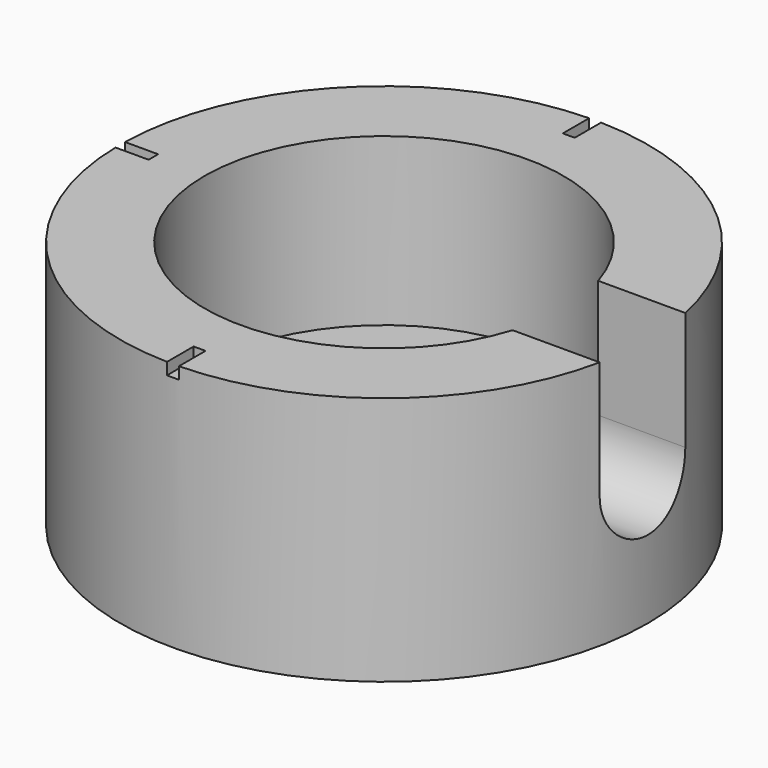
from build123d import *

# Parameters (mm, degrees)
F4_START = 14
F4_DEPTH = 16
F5_START = 20
F5_DEPTH = 1


with BuildPart() as f3:
    # F0 (on Front) → F3 (revolve)
    with BuildSketch(Plane.XZ):
        Polygon((0, 7), (0, 0), (22.2, 0), (22.2, 21), (15.1, 21), (15.1, 7), align=None)
    revolve(axis=Axis((0, 0, 3.5), (0, 0, -1)))

    # F1 (on Right) → F4 (cut)
    with BuildSketch(Plane.YZ.offset(F4_START)):
        with BuildLine():
            Line((4.5, 21.0452601314), (0, 21.0452601314))
            Line((0, 21.0452601314), (-4.5, 21.0452601314))
            Line((-4.5, 21.0452601314), (-4.5, 11.0452601314))
            ThreePointArc((-4.5, 11.0452601314), (0, 6.5452601314), (4.5, 11.0452601314))
            Line((4.5, 11.0452601314), (4.5, 21.0452601314))
        make_face()
    extrude(amount=F4_DEPTH, mode=Mode.SUBTRACT)

    # F2 (on Top) → F5 (cut)
    with BuildSketch(Plane.XY.offset(F5_START)):
        Polygon((0.5, -19.3967004567), (0, -19.3967004567), (-0.5, -19.3967004567), (-0.5, -22.3967004567), (0.5, -22.3967004567), align=None)
        Polygon((0.4999070801, 22.4221755646), (-9.29199e-05, 22.4221755646), (-0.5000929199, 22.4221755646), (-0.5000929199, 19.4221755646), (0.4999070801, 19.4221755646), align=None)
        Polygon((22.3929286003, -0.5), (22.3929286003, 0), (22.3929286003, 0.5), (19.3929286003, 0.5), (19.3929286003, -0.5), align=None)
        Polygon((-19.404573366, -0.5), (-19.404573366, 0), (-19.404573366, 0.5), (-22.404573366, 0.5), (-22.404573366, -0.5), align=None)
    extrude(amount=F5_DEPTH, mode=Mode.SUBTRACT)


solid = f3.part
